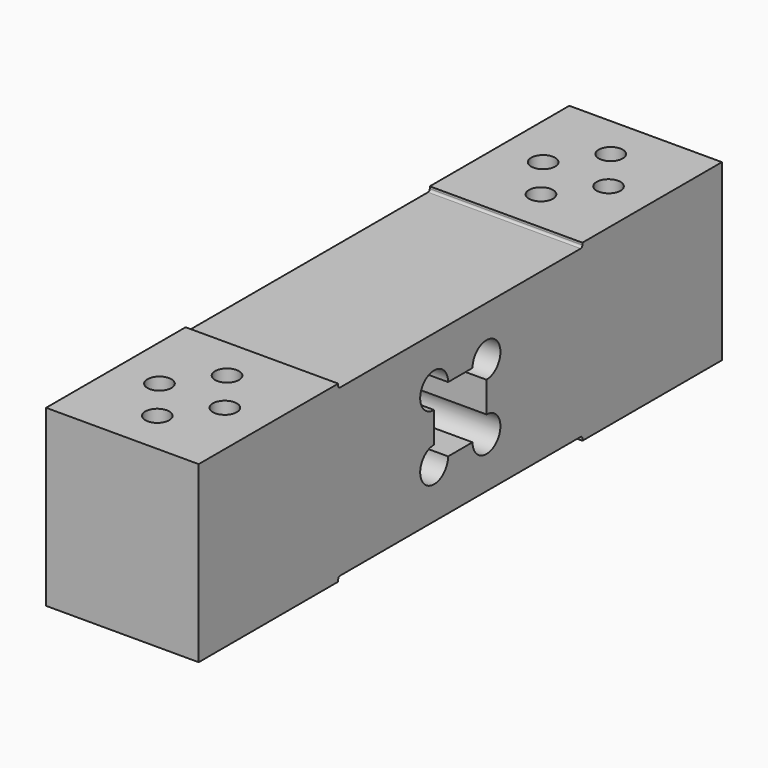
from build123d import *

# Parameters (mm, degrees)
F1_DEPTH = 35
F2_R     = 2.75
F3_DEPTH = 40


with BuildPart() as f1:
    # F0 (on Right) → F1 (new body)
    with BuildSketch(Plane.YZ):
        with BuildLine():
            Line((40, 0), (0, 0))
            Line((0, 0), (0, -40))
            Line((0, -40), (40, -40))
            Line((40, -40), (40, -39.5))
            ThreePointArc((40, -39.5), (40.146447, -39.146447), (40.5, -39))
            Line((40.5, -39), (109.5, -39))
            ThreePointArc((109.5, -39), (109.853553, -39.146447), (110, -39.5))
            Line((110, -39.5), (110, -40))
            Line((110, -40), (150, -40))
            Line((150, -40), (150, 0))
            Line((150, 0), (110, 0))
            Line((110, 0), (110, -0.5))
            ThreePointArc((110, -0.5), (109.853553, -0.853553), (109.5, -1))
            Line((109.5, -1), (40.5, -1))
            ThreePointArc((40.5, -1), (40.146447, -0.853553), (40, -0.5))
            Line((40, -0.5), (40, 0))
        make_face()
        with BuildLine():
            ThreePointArc((67.5, -16.5), (64.671573, -9.671573), (71.5, -12.5))
            Line((71.5, -12.5), (78.5, -12.5))
            ThreePointArc((78.5, -12.5), (85.328427, -9.671573), (82.5, -16.5))
            Line((82.5, -16.5), (82.5, -23.5))
            ThreePointArc((82.5, -23.5), (85.328427, -30.328427), (78.5, -27.5))
            Line((78.5, -27.5), (71.5, -27.5))
            ThreePointArc((71.5, -27.5), (64.671573, -30.328427), (67.5, -23.5))
            Line((67.5, -23.5), (67.5, -16.5))
        make_face(mode=Mode.SUBTRACT)
    extrude(amount=F1_DEPTH)

    # F2 (on face) → F3 (cut, through all)
    with BuildSketch(Plane.XY):
        with Locations((17.5, 10)):
            Circle(F2_R)
        with Locations((17.5, 30)):
            Circle(F2_R)
        with Locations((25, 20)):
            Circle(F2_R)
        with Locations((10, 20)):
            Circle(F2_R)
        with Locations((17.5, 120)):
            Circle(F2_R)
        with Locations((17.5, 140)):
            Circle(F2_R)
        with Locations((25, 130)):
            Circle(F2_R)
        with Locations((10, 130)):
            Circle(F2_R)
    extrude(amount=-F3_DEPTH, mode=Mode.SUBTRACT)


solid = f1.part
